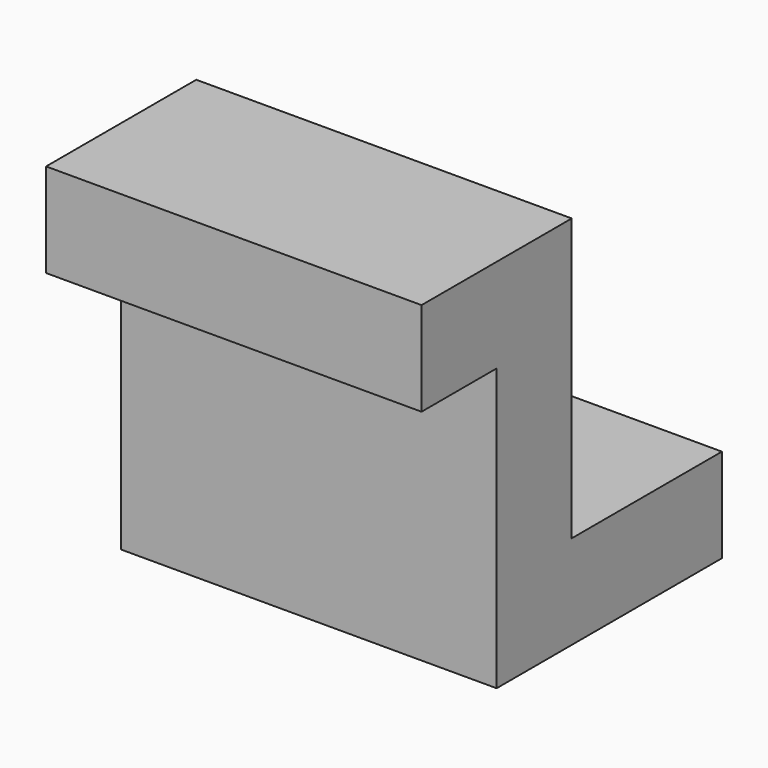
from build123d import *

# Parameters (mm, degrees)
F0_W     = 101.6
F0_H     = 101.6
F1_DEPTH = 76.2
F3_W     = 101.6
F3_H     = 25.4
F4_DEPTH = 25.4
F2_W     = 50.8
F2_H     = 76.2
F5_DEPTH = 101.6


with BuildPart() as f1:
    # F0 (on Front) → F1 (new body)
    with BuildSketch(Plane.XZ):
        with Locations((-50.8, 50.8)):
            Rectangle(F0_W, F0_H)
    extrude(amount=F1_DEPTH)

    # F3 (on face) → F4 (join)
    with BuildSketch(Plane.XZ.offset(76.2)):
        with Locations((-50.8, 88.9)):
            Rectangle(F3_W, F3_H)
    extrude(amount=F4_DEPTH)

    # F2 (on face) → F5 (cut)
    with BuildSketch(Plane.YZ):
        with Locations((-25.4, 63.5)):
            Rectangle(F2_W, F2_H)
    extrude(amount=-F5_DEPTH, mode=Mode.SUBTRACT)


solid = f1.part
